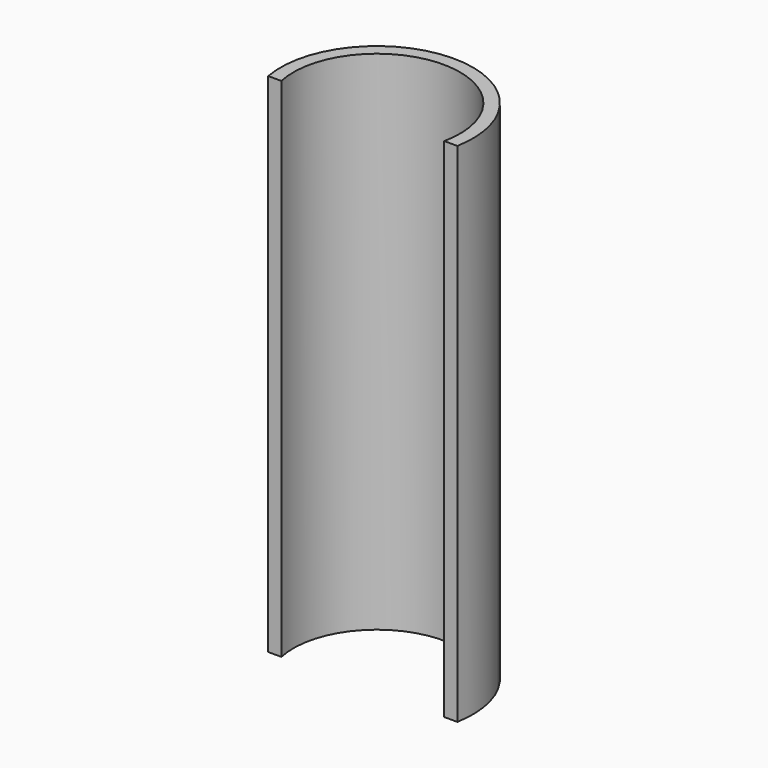
from build123d import *

# Parameters (mm, degrees)
F0_R     = 1
F1_DEPTH = 2
F3_DEPTH = 2
F5_DEPTH = 60
F6_W     = 84.123355
F6_H     = 40.454367
F7_DEPTH = 4


with BuildPart() as f1:
    # F0 (on Top) → F1 (new body)
    with BuildSketch(Plane.XY):
        with BuildLine():
            Line((-3.751696, 3.78006), (-3.109909, 2.896716))
            ThreePointArc((-3.109909, 2.896716), (-3.438322, 2.498087), (-3.715956, 2.062565))
            Line((-3.715956, 2.062565), (-4.754388, 2.399972))
            Line((-4.754388, 2.399972), (-5.817595, 2.320708))
            Line((-5.817595, 2.320708), (-6.070611, 1.542005))
            Line((-6.070611, 1.542005), (-5.257049, 0.852941))
            Line((-5.257049, 0.852941), (-4.218616, 0.515534))
            ThreePointArc((-4.218616, 0.515534), (-4.25, 0), (-4.218616, -0.515534))
            Line((-4.218616, -0.515534), (-5.257049, -0.852941))
            Line((-5.257049, -0.852941), (-6.070611, -1.542005))
            Line((-6.070611, -1.542005), (-5.817595, -2.320708))
            Line((-5.817595, -2.320708), (-4.754388, -2.399972))
            Line((-4.754388, -2.399972), (-3.715956, -2.062565))
            ThreePointArc((-3.715956, -2.062565), (-3.438322, -2.498087), (-3.109909, -2.896716))
            Line((-3.109909, -2.896716), (-3.751696, -3.78006))
            Line((-3.751696, -3.78006), (-4.00486, -4.815724))
            Line((-4.00486, -4.815724), (-3.342456, -5.296989))
            Line((-3.342456, -5.296989), (-2.435713, -4.736177))
            Line((-2.435713, -4.736177), (-1.793926, -3.852834))
            ThreePointArc((-1.793926, -3.852834), (-1.313322, -4.04199), (-0.813322, -4.171451))
            Line((-0.813322, -4.171451), (-0.813322, -5.263324))
            Line((-0.813322, -5.263324), (-0.409388, -6.25))
            Line((-0.409388, -6.25), (0.409388, -6.25))
            Line((0.409388, -6.25), (0.813322, -5.263324))
            Line((0.813322, -5.263324), (0.813322, -4.171451))
            ThreePointArc((0.813322, -4.171451), (1.313322, -4.04199), (1.793926, -3.852834))
            Line((1.793926, -3.852834), (2.435713, -4.736177))
            Line((2.435713, -4.736177), (3.342456, -5.296989))
            Line((3.342456, -5.296989), (4.00486, -4.815724))
            Line((4.00486, -4.815724), (3.751696, -3.78006))
            Line((3.751696, -3.78006), (3.109909, -2.896716))
            ThreePointArc((3.109909, -2.896716), (3.438322, -2.498087), (3.715956, -2.062565))
            Line((3.715956, -2.062565), (4.754388, -2.399972))
            Line((4.754388, -2.399972), (5.817595, -2.320708))
            Line((5.817595, -2.320708), (6.070611, -1.542005))
            Line((6.070611, -1.542005), (5.257049, -0.852941))
            Line((5.257049, -0.852941), (4.218616, -0.515534))
            ThreePointArc((4.218616, -0.515534), (4.25, 0), (4.218616, 0.515534))
            Line((4.218616, 0.515534), (5.257049, 0.852941))
            Line((5.257049, 0.852941), (6.070611, 1.542005))
            Line((6.070611, 1.542005), (5.817595, 2.320708))
            Line((5.817595, 2.320708), (4.754388, 2.399972))
            Line((4.754388, 2.399972), (3.715956, 2.062565))
            ThreePointArc((3.715956, 2.062565), (3.438322, 2.498087), (3.109909, 2.896716))
            Line((3.109909, 2.896716), (3.751696, 3.78006))
            Line((3.751696, 3.78006), (4.00486, 4.815724))
            Line((4.00486, 4.815724), (3.342456, 5.296989))
            Line((3.342456, 5.296989), (2.435713, 4.736177))
            Line((2.435713, 4.736177), (1.793926, 3.852834))
            ThreePointArc((1.793926, 3.852834), (1.313322, 4.04199), (0.813322, 4.171451))
            Line((0.813322, 4.171451), (0.813322, 5.263324))
            Line((0.813322, 5.263324), (0.409388, 6.25))
            Line((0.409388, 6.25), (-0.409388, 6.25))
            Line((-0.409388, 6.25), (-0.813322, 5.263324))
            Line((-0.813322, 5.263324), (-0.813322, 4.171451))
            ThreePointArc((-0.813322, 4.171451), (-1.313322, 4.04199), (-1.793926, 3.852834))
            Line((-1.793926, 3.852834), (-2.435713, 4.736177))
            Line((-2.435713, 4.736177), (-3.342456, 5.296989))
            Line((-3.342456, 5.296989), (-4.00486, 4.815724))
            Line((-4.00486, 4.815724), (-3.751696, 3.78006))
        make_face()
        Circle(F0_R, mode=Mode.SUBTRACT)
    extrude(amount=F1_DEPTH)

    # F2 (on face) → F3 (join)
    with BuildSketch(Plane.XY.offset(2)):
        with BuildLine():
            ThreePointArc((-34.301606, -7.25), (-24.988946, 4.275), (-15.676287, -7.25))
            Line((-15.676287, -7.25), (-14.172292, -7.25))
            ThreePointArc((-14.172292, -7.25), (-14.124852, -3.526211), (-15.322639, 0))
            Line((-15.322639, 0), (-5.88111, 2.12523))
            Line((-5.88111, 2.12523), (-5.817595, 2.320708))
            Line((-5.817595, 2.320708), (-4.754388, 2.399972))
            Line((-4.754388, 2.399972), (-4.715983, 2.387493))
            Line((-4.715983, 2.387493), (-3.27176, 2.712579))
            ThreePointArc((-3.27176, 2.712579), (-3.192163, 2.805815), (-3.109909, 2.896716))
            Line((-3.109909, 2.896716), (-3.751696, 3.78006))
            Line((-3.751696, 3.78006), (-4.00486, 4.815724))
            Line((-4.00486, 4.815724), (-3.342456, 5.296989))
            Line((-3.342456, 5.296989), (-2.435713, 4.736177))
            Line((-2.435713, 4.736177), (-1.793926, 3.852834))
            ThreePointArc((-1.793926, 3.852834), (-1.313322, 4.04199), (-0.813322, 4.171451))
            Line((-0.813322, 4.171451), (-0.813322, 5.263324))
            Line((-0.813322, 5.263324), (-0.453438, 6.142401))
            Line((-0.453438, 6.142401), (-18.813315, 3.852834))
            ThreePointArc((-18.813315, 3.852834), (-31.005839, 3.958528), (-35.8056, -7.25))
            Line((-35.8056, -7.25), (-34.301606, -7.25))
        make_face()
    extrude(amount=-F3_DEPTH)

    # F4 (on face) → F5 (join)
    with BuildSketch(Plane.XY.offset(2)):
        with BuildLine():
            Line((-15.676287, -7.25), (-14.172292, -7.25))
            ThreePointArc((-14.172292, -7.25), (-14.124852, -3.526211), (-15.322639, 0))
            ThreePointArc((-15.322639, 0), (-16.837085, 2.135605), (-18.813315, 3.852834))
            ThreePointArc((-18.813315, 3.852834), (-31.005839, 3.958528), (-35.8056, -7.25))
            Line((-35.8056, -7.25), (-34.301606, -7.25))
            ThreePointArc((-34.301606, -7.25), (-24.988946, 4.275), (-15.676287, -7.25))
        make_face()
    extrude(amount=F5_DEPTH)

    # F6 (on Top) → F7 (cut)
    with BuildSketch(Plane.XY):
        with Locations((-13.661468, 5.350011)):
            Rectangle(F6_W, F6_H)
    extrude(amount=F7_DEPTH, mode=Mode.SUBTRACT)


solid = f1.part
